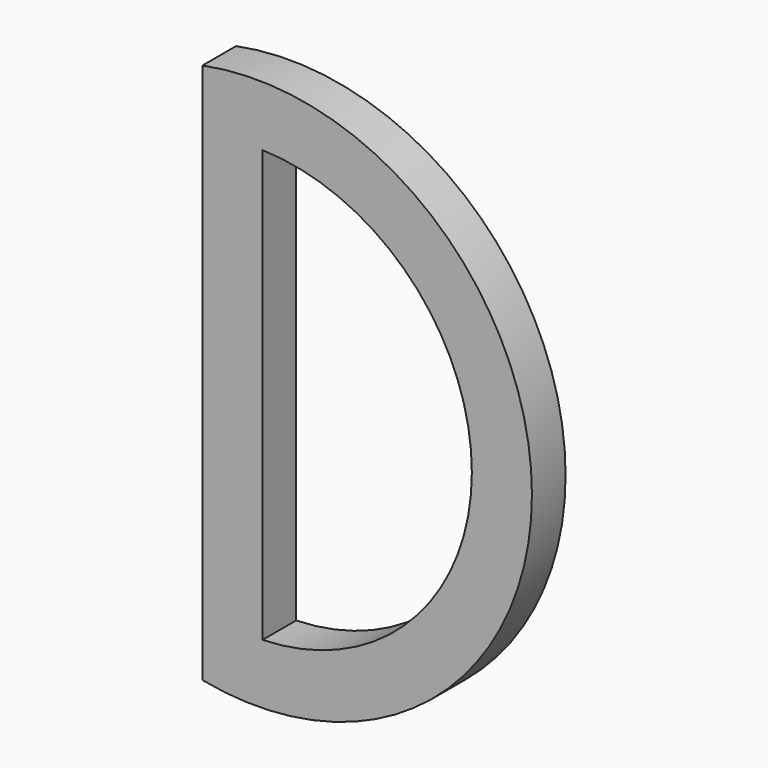
from build123d import *

# Parameters (mm, degrees)
F1_DEPTH = 1.778
F2_T     = -2.54


with BuildPart() as f1:
    # F0 (on Front) → F1 (new body)
    with BuildSketch(Plane.XZ):
        with BuildLine():
            ThreePointArc((0, -14.059785), (13.929606, -2.624702), (0, 8.810381))
            Line((0, 8.810381), (0, -14.059785))
        make_face()
        with BuildLine():
            ThreePointArc((0, -14.059785), (13.929606, -2.624702), (0, 8.810381))
            Line((0, 8.810381), (0, -14.059785))
        make_face()
    extrude(amount=F1_DEPTH)

    # F2
    f2_openings = [f1.faces().sort_by_distance(p)[0] for p in [
        (6.016987, -1.778, -2.624702),
        (6.016987, 0, -2.624702),
    ]]
    offset(amount=F2_T, openings=f2_openings)


solid = f1.part
